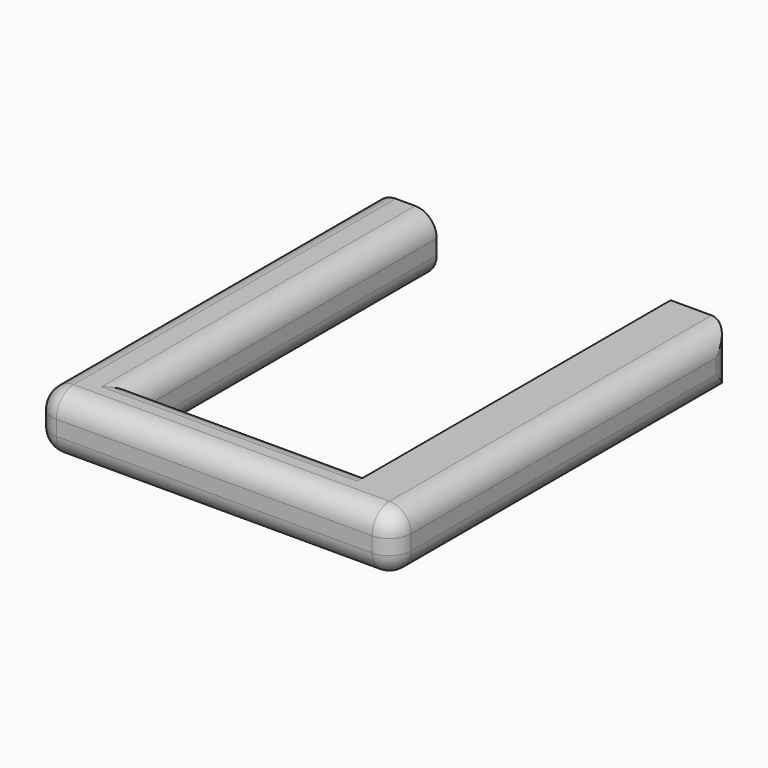
from build123d import *

# Parameters (mm, degrees)
F1_DEPTH = 6.858
F2_R     = 2.54
F3_R     = 1.723698
F4_DEPTH = 13.6906


with BuildPart() as f1:
    # F0 (on Top) → F1 (new body)
    with BuildSketch(Plane.XY):
        Polygon((-21.122105, 0), (0, 0), (21.122105, 0), (21.122105, 49.931053), (13.769474, 49.931053), (13.769474, 6.35), (0, 6.35), (-13.769474, 6.35), (-13.769474, 49.931053), (-21.122105, 49.931053), align=None)
    extrude(amount=F1_DEPTH)

    # F2
    f2_edges = [f1.edges().sort_by_distance(p)[0] for p in [
        (13.769474, 28.140527, 0),
        (0, 6.35, 0),
        (-13.769474, 28.140527, 0),
        (0, 0, 6.858),
        (21.122105, 0, 3.429),
        (21.122105, 49.931053, 3.429),
        (21.122105, 24.965527, 6.858),
        (-21.122105, 0, 3.429),
        (-21.122105, 24.965527, 0),
        (-21.122105, 24.965527, 6.858),
        (0, 0, 0),
        (21.122105, 24.965527, 0),
        (-13.769474, 28.140527, 6.858),
        (0, 6.35, 6.858),
    ]]
    fillet(f2_edges, radius=F2_R)

    # F3 (on face) → F4 (join)
    with BuildSketch(Plane(origin=(0, 49.931053, 0), x_dir=(-1, 0, 0), z_dir=(0, 1, 0))):
        with Locations((17.637752, 3.690227)):
            Circle(F3_R)
    extrude(amount=-F4_DEPTH)


solid = f1.part
